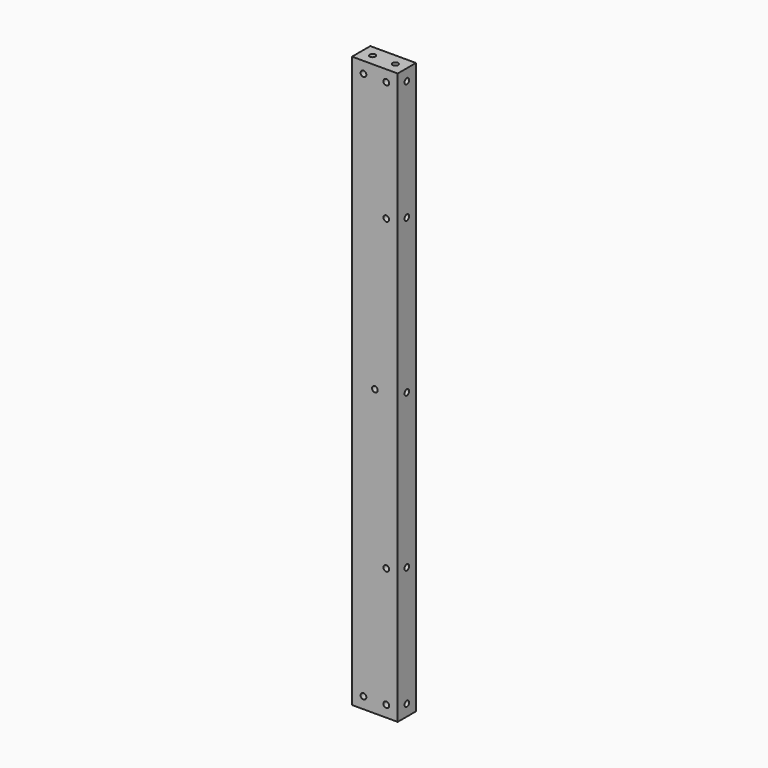
from build123d import *

# Parameters (mm, degrees)
F0_W     = 40
F0_H     = 20
F0_R     = 2.5
F1_DEPTH = 500
F2_R     = 2.5
F3_DEPTH = 40.001
F4_R     = 2.5
F5_DEPTH = 20.001


with BuildPart() as f1:
    # F0 (on Top) → F1 (new body)
    with BuildSketch(Plane.XY):
        Rectangle(F0_W, F0_H)
        with Locations((-10, 0)):
            Circle(F0_R, mode=Mode.SUBTRACT)
        with Locations((10, 0)):
            Circle(F0_R, mode=Mode.SUBTRACT)
    extrude(amount=F1_DEPTH)

    # F2 (on face) → F3 (cut, through all)
    with BuildSketch(Plane.YZ.offset(20)):
        with Locations((0, 10)):
            Circle(F2_R)
        with Locations((0, 490)):
            Circle(F2_R)
        with Locations((0, 250)):
            Circle(F2_R)
        with Locations((0, 115.127)):
            Circle(F2_R)
        with Locations((0, 384.873)):
            Circle(F2_R)
    extrude(amount=-F3_DEPTH, mode=Mode.SUBTRACT)

    # F4 (on face) → F5 (cut, through all)
    with BuildSketch(Plane.XZ.offset(10)):
        with Locations((0, 250)):
            Circle(F4_R)
        with Locations((-10, 490)):
            Circle(F4_R)
        with Locations((10, 490)):
            Circle(F4_R)
        with Locations((-10, 10)):
            Circle(F4_R)
        with Locations((10, 10)):
            Circle(F4_R)
        with Locations((10, 115.127)):
            Circle(F4_R)
        with Locations((10, 384.873)):
            Circle(F4_R)
    extrude(amount=-F5_DEPTH, mode=Mode.SUBTRACT)


solid = f1.part
